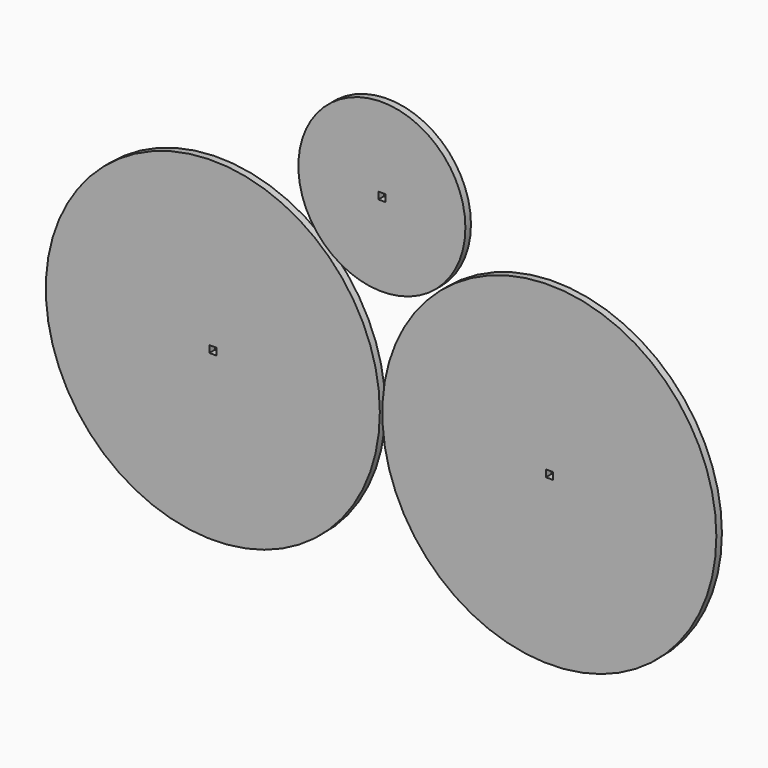
from build123d import *

# Parameters (mm, degrees)
F0_R     = 76.2
F0_W     = 3.175
F0_H     = 3.175
F0_R_2   = 38.1
F1_DEPTH = 3.175


with BuildPart() as f1:
    # F0 (on Front) → F1 (new body)
    with BuildSketch(Plane.XZ):
        with Locations((-95.198759, 0)):
            Circle(F0_R)
        with Locations((-95.198759, 0)):
            Rectangle(F0_W, F0_H, mode=Mode.SUBTRACT)
        with Locations((-18.076554, 86.731732)):
            Circle(F0_R_2)
        with Locations((-18.076554, 86.731732)):
            Rectangle(F0_W, F0_H, mode=Mode.SUBTRACT)
        with Locations((58.320269, 0)):
            Circle(F0_R)
        with Locations((58.320269, 0)):
            Rectangle(F0_W, F0_H, mode=Mode.SUBTRACT)
    extrude(amount=F1_DEPTH)


solid = f1.part
